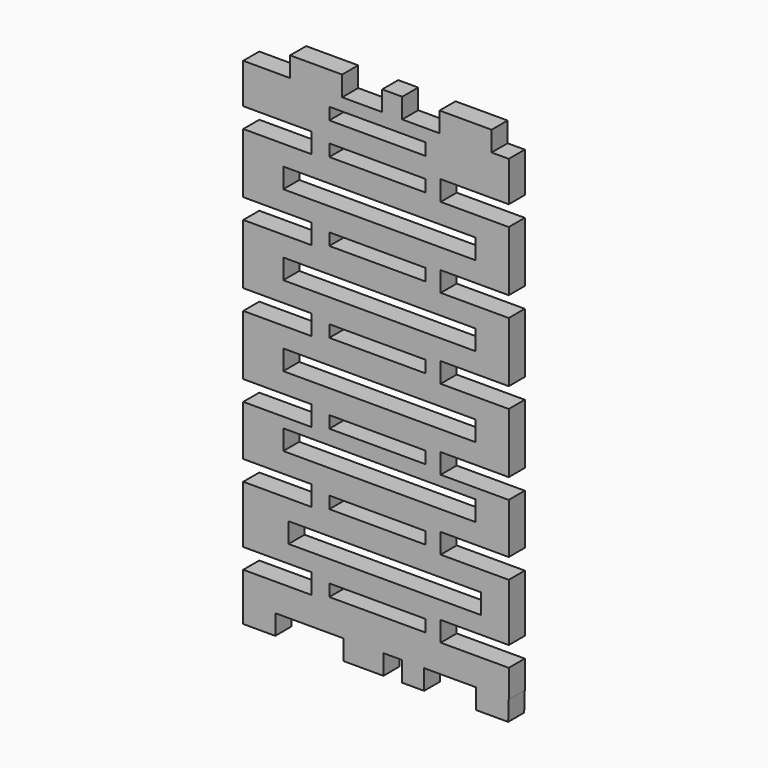
from build123d import *

# Parameters (mm, degrees)
F0_W     = 24
F0_H     = 3
F0_W_2   = 48
F0_H_2   = 5
F0_W_3   = 13
F0_W_4   = 5
F0_W_5   = 10
F0_W_6   = 5.462219
F0_W_7   = 8
F2_DEPTH = 5


with BuildPart() as f2:
    # F0 (on Front) → F2 (new body)
    with BuildSketch(Plane.XZ):
        Polygon((-44.148275, 55), (-55.860446, 55), (-55.860446, 45), (-38.860446, 45), (-38.860446, 40), (-55.860446, 40), (-55.860446, 25), (-38.860446, 25), (-38.860446, 20), (-55.860446, 20), (-55.860446, 5), (-38.860446, 5), (-38.860446, 0), (-55.860446, 0), (-55.860446, -15), (-38.860446, -15), (-38.860446, -20), (-55.860446, -20), (-55.860446, -32.565833), (-38.860446, -32.565833), (-38.860446, -37.565833), (-55.860446, -37.565833), (-55.860446, -51.917288), (-38.860446, -51.917288), (-38.860446, -56.917288), (-55.860446, -56.917288), (-55.860446, -63.862034), (-47.860446, -63.862034), (-30.842662, -63.862034), (-20.842662, -63.862034), (-16.148275, -63.862034), (-10.686056, -63.862034), (2.313944, -63.862034), (10.461201, -63.862034), (10.461201, -56.917288), (-6.538799, -56.917288), (-6.538799, -51.917288), (10.461201, -51.917288), (10.461201, -37.565833), (-6.538799, -37.565833), (-6.538799, -32.565833), (10.461201, -32.565833), (10.461201, -20), (-6.538799, -20), (-6.538799, -15), (10.461201, -15), (10.461201, 0), (-6.538799, 0), (-6.538799, 5), (10.461201, 5), (10.461201, 20), (-6.538799, 20), (-6.538799, 25), (10.461201, 25), (10.461201, 40), (-6.538799, 40), (-6.538799, 45), (10.461201, 45), (10.461201, 55), (6.173372, 55), (-6.826628, 55), (-16.148275, 55), (-21.148275, 55), (-31.148275, 55), align=None)
        with Locations((-22.360446, -54.425548)):
            Rectangle(F0_W, F0_H, mode=Mode.SUBTRACT)
        with Locations((-20.532146, -45.065833)):
            Rectangle(F0_W_2, F0_H_2, mode=Mode.SUBTRACT)
        with Locations((-22.360446, -35.106815)):
            Rectangle(F0_W, F0_H, mode=Mode.SUBTRACT)
        with Locations((-21.860446, -25.065833)):
            Rectangle(F0_W_2, F0_H_2, mode=Mode.SUBTRACT)
        with Locations((-22.360446, -17.415623)):
            Rectangle(F0_W, F0_H, mode=Mode.SUBTRACT)
        with Locations((-21.860446, -7.5)):
            Rectangle(F0_W_2, F0_H_2, mode=Mode.SUBTRACT)
        with Locations((-22.360446, 2.570768)):
            Rectangle(F0_W, F0_H, mode=Mode.SUBTRACT)
        with Locations((-21.860446, 12.5)):
            Rectangle(F0_W_2, F0_H_2, mode=Mode.SUBTRACT)
        with Locations((-22.360446, 22.768489)):
            Rectangle(F0_W, F0_H, mode=Mode.SUBTRACT)
        with Locations((-21.860446, 32.5)):
            Rectangle(F0_W_2, F0_H_2, mode=Mode.SUBTRACT)
        with Locations((-22.360446, 42.321008)):
            Rectangle(F0_W, F0_H, mode=Mode.SUBTRACT)
        with Locations((-22.360446, 50.378293)):
            Rectangle(F0_W, F0_H, mode=Mode.SUBTRACT)
        with Locations((-37.648275, 57.5)):
            Rectangle(F0_W_3, F0_H_2)
        with Locations((-18.648275, 57.5)):
            Rectangle(F0_W_4, F0_H_2)
        with Locations((-0.326628, 57.5)):
            Rectangle(F0_W_3, F0_H_2)
        with Locations((-25.842662, -66.362034)):
            Rectangle(F0_W_5, F0_H_2)
        with Locations((-13.417165, -66.362034)):
            Rectangle(F0_W_6, F0_H_2)
        Polygon((10.461201, -63.862034), (2.313944, -63.862034), (2.313944, -68.862034), (10.313944, -68.862034), align=None)
        with Locations((-51.860446, -66.362034)):
            Rectangle(F0_W_7, F0_H_2)
    extrude(amount=F2_DEPTH)


solid = f2.part
